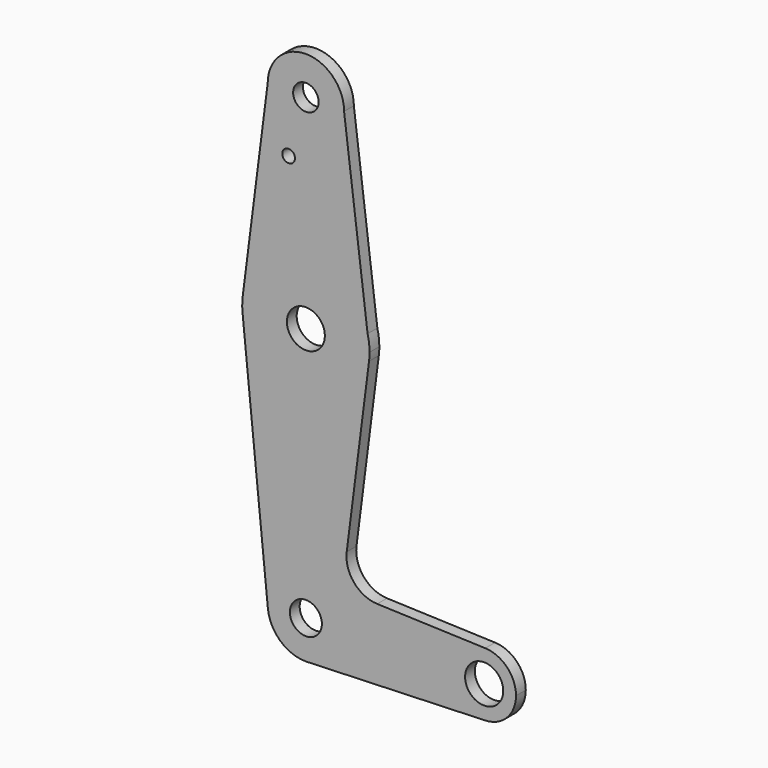
from build123d import *

# Parameters (mm, degrees)
F0_R     = 3.175
F0_R_2   = 1.5875
F0_R_3   = 4.729967
F0_R_4   = 3.988899
F0_R_5   = 4.752778
F1_DEPTH = 3.048


with BuildPart() as f1:
    # F0 (on Front) → F1 (new body)
    with BuildSketch(Plane.XZ):
        with BuildLine():
            ThreePointArc((-9.525, 114.3), (0, 104.775), (9.525, 114.3))
            ThreePointArc((9.525, 114.3), (0, 123.825), (-9.525, 114.3))
        make_face()
        with Locations((0, 114.3)):
            Circle(F0_R, mode=Mode.SUBTRACT)
        with BuildLine():
            Line((15.386538, 67.407692), (9.525, 114.3))
            ThreePointArc((9.525, 114.3), (0, 104.775), (-9.525, 114.3))
            Line((-9.525, 114.3), (-15.747457, 65.508289))
            ThreePointArc((-15.747457, 65.508289), (-0.966695, 79.34554), (15.386538, 67.407692))
        make_face()
        with Locations((-4.299854, 100.0252)):
            Circle(F0_R_2, mode=Mode.SUBTRACT)
        with BuildLine():
            Line((15.875, 63.5), (15.386538, 67.407692))
            ThreePointArc((15.386538, 67.407692), (-0.966695, 79.34554), (-15.747457, 65.508289))
            ThreePointArc((-15.747457, 65.508289), (-15.873588, 63.711757), (-15.795426, 61.9125))
            ThreePointArc((-15.795426, 61.9125), (-0.211757, 47.626412), (15.747457, 61.491711))
            ThreePointArc((15.747457, 61.491711), (15.843082, 62.493832), (15.875, 63.5))
        make_face()
        with Locations((0, 63.5)):
            Circle(F0_R_3, mode=Mode.SUBTRACT)
        with BuildLine():
            ThreePointArc((15.875, 63.5), (15.752411, 65.469051), (15.386538, 67.407692))
            Line((15.386538, 67.407692), (15.875, 63.5))
        make_face()
        with BuildLine():
            ThreePointArc((15.747457, 61.491711), (-0.211757, 47.626412), (-15.795426, 61.9125))
            Line((-15.795426, 61.9125), (-9.477255, -0.9525))
            ThreePointArc((-9.477255, -0.9525), (-0.476848, 9.513056), (9.525, 0))
            ThreePointArc((9.525, 0), (6.970557, -6.491299), (0.677344, -9.500886))
            Line((0.677344, -9.500886), (44.732405, -7.932475))
            ThreePointArc((44.732405, -7.932475), (36.5125, 0), (44.732405, 7.932475))
            Line((44.732405, 7.932475), (17.784333, 8.891857))
            ThreePointArc((17.784333, 8.891857), (12.008013, 11.68998), (10.180863, 17.842775))
            Line((10.180863, 17.842775), (15.747457, 61.491711))
        make_face()
        with BuildLine():
            ThreePointArc((9.525, 0), (-0.476848, 9.513056), (-9.477255, -0.9525))
            ThreePointArc((-9.477255, -0.9525), (-6.389564, -7.063929), (0, -9.525))
            Line((0, -9.525), (0.677344, -9.500886))
            ThreePointArc((0.677344, -9.500886), (6.970557, -6.491299), (9.525, 0))
        make_face()
        Circle(F0_R_4, mode=Mode.SUBTRACT)
        with BuildLine():
            Line((0.677344, -9.500886), (0, -9.525))
            ThreePointArc((0, -9.525), (0.338886, -9.51897), (0.677344, -9.500886))
        make_face()
        with BuildLine():
            ThreePointArc((52.3875, 0), (50.161633, 5.51191), (44.732405, 7.932475))
            ThreePointArc((44.732405, 7.932475), (36.5125, 0), (44.732405, -7.932475))
            ThreePointArc((44.732405, -7.932475), (50.161633, -5.51191), (52.3875, 0))
        make_face()
        with Locations((44.45, 0)):
            Circle(F0_R_5, mode=Mode.SUBTRACT)
    extrude(amount=F1_DEPTH)


solid = f1.part
